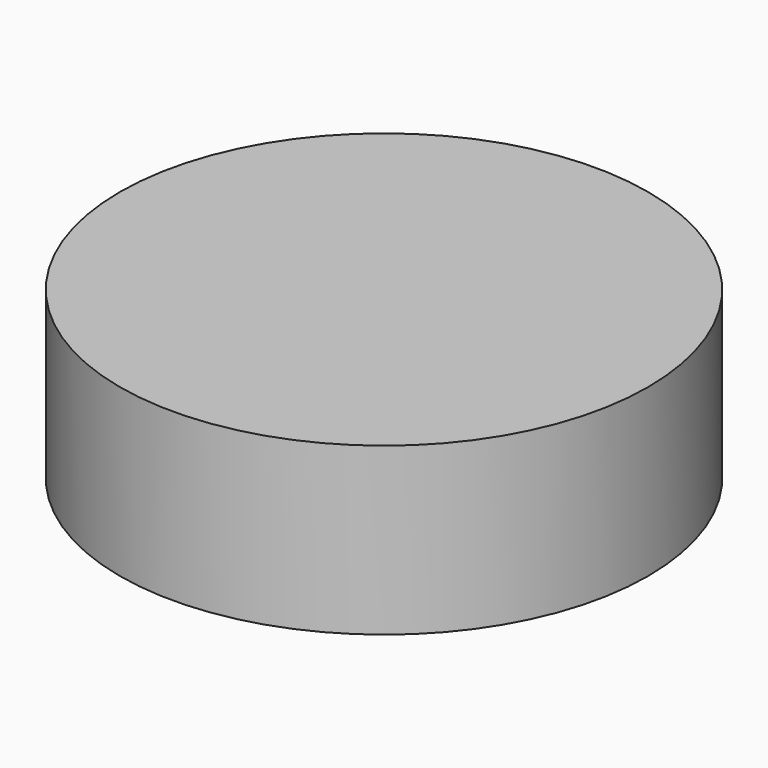
from build123d import *

# Parameters (mm, degrees)
F0_R     = 127
F1_DEPTH = 80
F2_R     = 105.6868422046
F3_DEPTH = 69.596
F4_R     = 105.629442308
F5_DEPTH = 67.31
F6_R     = 127
F6_R_2   = 105.6868422046
F7_DEPTH = 109.474
F8_R     = 105.6868422046
F9_DEPTH = 11.176


with BuildPart() as f1:
    # F0 (on Top) → F1 (new body)
    with BuildSketch(Plane.XY):
        Circle(F0_R)
    extrude(amount=F1_DEPTH)

    # F2 (on face) → F3 (cut)
    with BuildSketch(Plane.XY.offset(80)):
        Circle(F2_R)
    extrude(amount=-F3_DEPTH, mode=Mode.SUBTRACT)

    # F4 (on face) → F5 (join)
    with BuildSketch(Plane.XY.offset(10.404)):
        Circle(F4_R)
    extrude(amount=F5_DEPTH)

    # F6 (on face) → F7 (cut)
    with BuildSketch(Plane.XY.offset(80)):
        Circle(F6_R)
        Circle(F6_R_2, mode=Mode.SUBTRACT)
    extrude(amount=-F7_DEPTH, mode=Mode.SUBTRACT)

    # F8 (on face) → F9 (cut)
    with BuildSketch(Plane(origin=(0, 0, 0), x_dir=(1, 0, 0), z_dir=(0, 0, -1))):
        Circle(F8_R)
    extrude(amount=-F9_DEPTH, mode=Mode.SUBTRACT)


solid = f1.part
